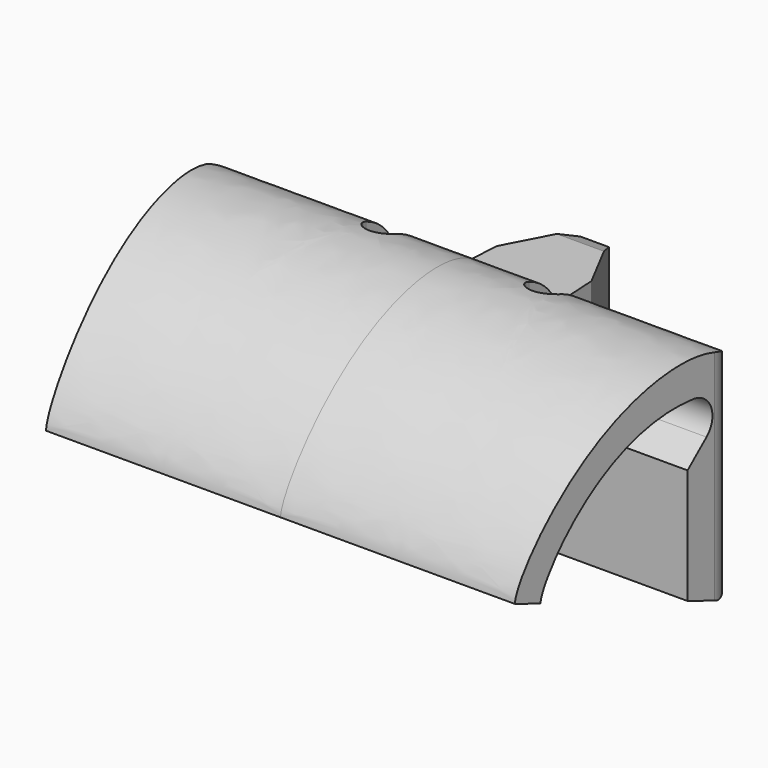
from build123d import *

# Parameters (mm, degrees)
PAD_DEPTH            = 25
PAD001_DEPTH         = 17
POCKET_DEPTH         = 22.033273
SKETCH010_W          = 4
SKETCH010_H          = 4
POCKET001_DEPTH      = 6
POCKET002_DEPTH      = 0.001
POCKET002_DEPTH_BACK = -57.785827
POCKET003_DEPTH      = 6.033273


with BuildPart() as part:
    # Sketch006 → Pad (new body, symmetric)
    with BuildSketch(Plane(origin=(32.784826, 3e-06, 0), x_dir=(0, 1, 0), z_dir=(1, 0, 0))):
        with BuildLine():
            Line((4, 0), (4, 15))
            add(Edge.make_bspline(
                [(4, 15), (3.756943, 23.438381), (-13.475633, 23), (-22.552623, 10.026941), (-22.552623, 8.208483)],
                knots=[0, 0, 0, 0, 0.5, 1, 1, 1, 1], degree=3))
            Line((-22.552623, 8.208483), (-19.733545, 7.182423))
            add(Edge.make_bspline(
                [(-3, 18.5), (-13.258017, 19), (-19.733545, 9.00088), (-19.733545, 7.182423)],
                knots=[0, 0, 0, 0, 1, 1, 1, 1], degree=3))
            ThreePointArc((-3, 18.5), (-0.921271, 17.111038), (-1.40901, 14.65901))
            Line((-1.40901, 14.65901), (-3.5, 12.568019))
            Line((-3.5, 12.568019), (-3.5, 1.273896))
            Line((-3.5, 1.273896), (0, 0))
            Line((0, 0), (4, 0))
        make_face()
    extrude(amount=PAD_DEPTH, both=True)

    # Sketch008 (on Face9 of Pad) → Pad001 (join)
    with BuildSketch(Plane(origin=(32.784826, 3e-06, 0), x_dir=(0, 1, 0), z_dir=(0, 0, -1))):
        Polygon((3.05, 6.5), (3.05, -6.5), (4.6, -4.95), (9.8, -4.65), (16, -1.4), (16, 1.4), (9.8, 4.65), (4.6, 4.95), align=None)
    extrude(amount=-PAD001_DEPTH)

    # Sketch009 (on Face5 of Pad001) → Pocket (cut, through all)
    with BuildSketch(Plane(origin=(32.784826, 3e-06, 0), x_dir=(0, 1, 0), z_dir=(0, 0, -1))):
        with BuildLine():
            ThreePointArc((1.396424, -7.9), (-1.4, -8), (1.396424, -8.1))
            Line((4, -8.1), (1.396424, -8.1))
            Line((4, -7.9), (4, -8.1))
            Line((1.396424, -7.9), (4, -7.9))
        make_face()
        with BuildLine():
            ThreePointArc((1.396424, 8.1), (-1.4, 8), (1.396424, 7.9))
            Line((4, 7.9), (1.396424, 7.9))
            Line((4, 8.1), (4, 7.9))
            Line((1.396424, 8.1), (4, 8.1))
        make_face()
        with BuildLine():
            Line((-34, -26), (4, -26))
            Line((4, -26), (4, -12))
            Line((4, -12), (1.8, -23.5))
            ThreePointArc((-0.5, -25), (0.872953, -24.591861), (1.8, -23.5))
            Line((-0.5, -25), (-34, -22))
            Line((-34, -22), (-34, -26))
        make_face()
        with BuildLine():
            Line((-34, 26), (4, 26))
            Line((4, 26), (4, 12))
            Line((1.8, 23.5), (4, 12))
            ThreePointArc((1.8, 23.5), (0.872953, 24.591861), (-0.5, 25))
            Line((-34, 22), (-0.5, 25))
            Line((-34, 26), (-34, 22))
        make_face()
    extrude(amount=-POCKET_DEPTH, mode=Mode.SUBTRACT)

    # Sketch010 (on Face12 of Pocket) → Pocket001 (cut)
    with BuildSketch(Plane(origin=(32.784826, 4.000003, 0), x_dir=(0, 0, 1), z_dir=(0, 1, 0))):
        with Locations((7.5, 8)):
            Rectangle(SKETCH010_W, SKETCH010_H)
        with Locations((7.5, -8)):
            Rectangle(SKETCH010_W, SKETCH010_H)
    extrude(amount=-POCKET001_DEPTH, mode=Mode.SUBTRACT)

    # Sketch → Pocket002 (cut, two sides)
    with BuildSketch(Plane.YZ) as pocket002_sk:
        Polygon((11.164997, 18.123767), (17, 18.123767), (17, 16), align=None)
        Polygon((12.734107, -0.552658), (17, -0.552658), (17, 1), align=None)
    extrude(amount=-POCKET002_DEPTH, mode=Mode.SUBTRACT)
    extrude(pocket002_sk.sketch, amount=-POCKET002_DEPTH_BACK, mode=Mode.SUBTRACT)

    # Sketch011 (on Face44 of Pocket002) → Pocket003 (cut, through all)
    with BuildSketch(Plane(origin=(32.784826, 3e-06, 16), x_dir=(0, 1, 0), z_dir=(0, 0, -1))):
        with BuildLine():
            ThreePointArc((0, 9.65), (-1.65, 8), (0, 6.35))
            Line((5, 6.35), (0, 6.35))
            Line((5, 9.65), (5, 6.35))
            Line((0, 9.65), (5, 9.65))
        make_face()
        with BuildLine():
            ThreePointArc((0, -6.35), (-1.65, -8), (0, -9.65))
            Line((5, -9.65), (0, -9.65))
            Line((5, -6.35), (5, -9.65))
            Line((0, -6.35), (5, -6.35))
        make_face()
    extrude(amount=-POCKET003_DEPTH, mode=Mode.SUBTRACT)


solid = part.part
